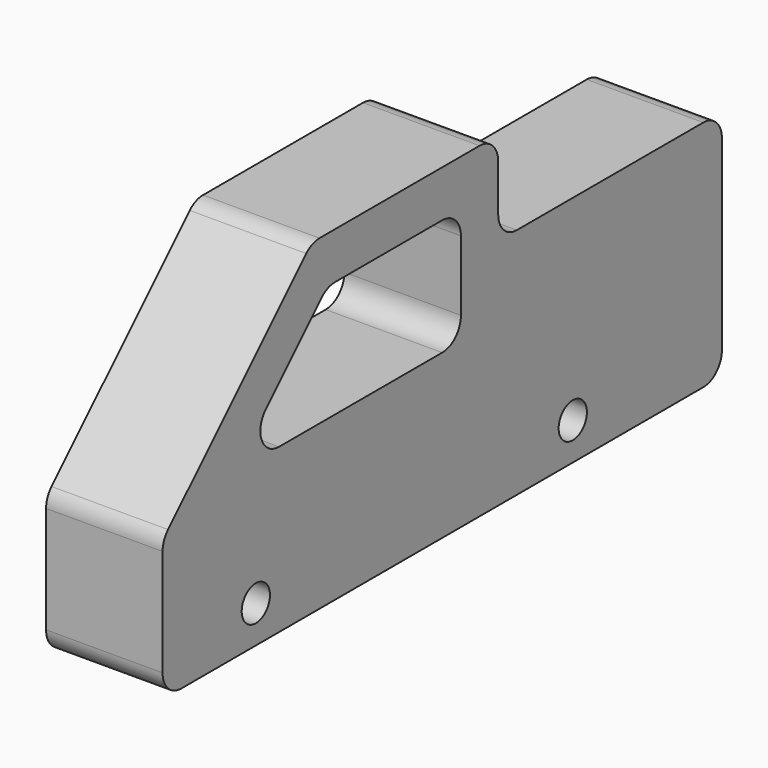
from build123d import *

# Parameters (mm, degrees)
F0_R     = 3.787682
F1_DEPTH = 25
F2_R     = 5
F3_R     = 5


with BuildPart() as f1:
    # F0 (on Right) → F1 (new body)
    with BuildSketch(Plane.YZ):
        Polygon((0, 30), (0, 0), (150, 0), (150, 50), (90, 50), (90, 70), (40, 70), align=None)
        with Locations((25, 7.99161)):
            Circle(F0_R, mode=Mode.SUBTRACT)
        with Locations((110, 7.99161)):
            Circle(F0_R, mode=Mode.SUBTRACT)
        Polygon((44.142136, 60), (80, 60), (80, 35), (19.142136, 35), align=None, mode=Mode.SUBTRACT)
    extrude(amount=F1_DEPTH)

    # F2
    f2_edges = [f1.edges().sort_by_distance(p)[0] for p in [
        (12.5, 90, 70),
        (12.5, 90, 50),
        (12.5, 150, 50),
        (12.5, 150, 0),
        (12.5, 40, 70),
        (12.5, 0, 30),
        (12.5, 0, 0),
    ]]
    fillet(f2_edges, radius=F2_R)

    # F3
    f3_edges = [f1.edges().sort_by_distance(p)[0] for p in [
        (12.5, 19.142136, 35),
        (12.5, 80, 60),
        (12.5, 44.142136, 60),
        (12.5, 80, 35),
    ]]
    fillet(f3_edges, radius=F3_R)


solid = f1.part
